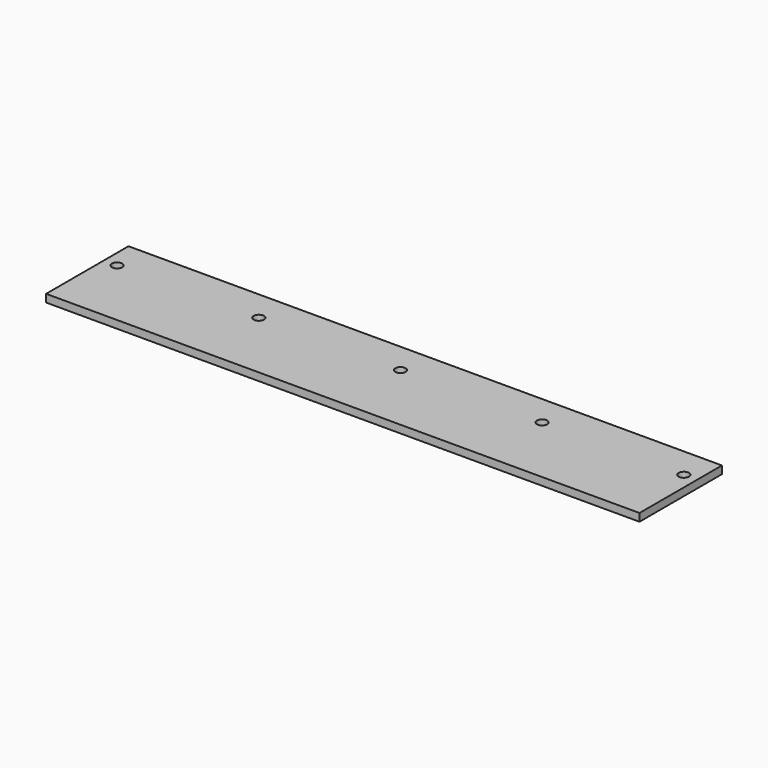
from build123d import *

# Parameters (mm, degrees)
F0_W     = 230.4
F0_H     = 40
F1_DEPTH = 3
F2_R     = 2
F3_DEPTH = 3.001


with BuildPart() as f1:
    # F0 (on Top) → F1 (new body)
    with BuildSketch(Plane.XY):
        with Locations((115.2, 20)):
            Rectangle(F0_W, F0_H)
    extrude(amount=F1_DEPTH)

    # F2 (on face) → F3 (cut, through all)
    with BuildSketch(Plane.XY.offset(3)):
        with Locations((5.2, 28)):
            Circle(F2_R)
        with Locations((60.2, 28)):
            Circle(F2_R)
        with Locations((115.2, 28)):
            Circle(F2_R)
        with Locations((170.2, 28)):
            Circle(F2_R)
        with Locations((225.2, 28)):
            Circle(F2_R)
    extrude(amount=-F3_DEPTH, mode=Mode.SUBTRACT)


solid = f1.part
